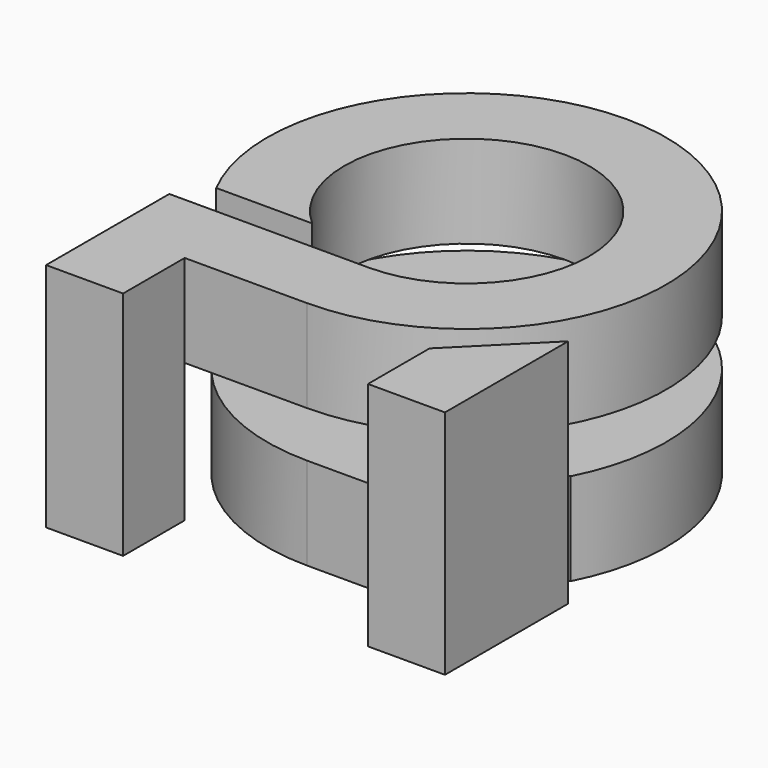
from build123d import *

# Parameters (mm, degrees)
F5_DEPTH = 1.5
F1_DEPTH = 4.5
F3_ANGLE = 180


with BuildPart() as f5:
    # F4 (on Top) → F5 (new body, symmetric)
    with BuildSketch(Plane.XY):
        with BuildLine():
            ThreePointArc((0, 3.975), (3.975, 0), (0, -3.975))
            Line((0, -3.975), (-6.475, -3.975))
            Line((-6.475, -3.975), (-6.475, -8.975))
            Line((-6.475, -8.975), (-3.975, -8.975))
            Line((-3.975, -8.975), (-3.975, -6.475))
            Line((-3.975, -6.475), (0, -6.475))
            ThreePointArc((0, -6.475), (6.475, 0), (0, 6.475))
            Line((0, 6.475), (0, 3.975))
        make_face()
        with BuildLine():
            ThreePointArc((-2.6362852653, -2.975), (-3.71660127, 1.409787218), (0, 3.975))
            Line((0, 3.975), (0, 6.475))
            ThreePointArc((0, 6.475), (-5.5312182202, 3.3661922108), (-5.7510868538, -2.975))
            Line((-5.7510868538, -2.975), (-2.6362852653, -2.975))
        make_face()
    extrude(amount=F5_DEPTH, both=True)

    # F0 (on face) → F1 (join)
    with BuildSketch(Plane(origin=(0, 0, -1.5), x_dir=(1, 0, 0), z_dir=(0, 0, -1))):
        Polygon((-6.475, 8.975), (-6.475, 3.975), (-3.975, 6.475), (-3.975, 8.975), align=None)
        Polygon((-6.475, 8.975), (-6.475, 3.975), (-3.975, 6.475), (-3.975, 8.975), align=None)
    extrude(amount=F1_DEPTH)


with BuildPart() as f2_1:
    # F2: copy of F5
    add(f5.part.moved(Location((0, 0, 4.5))))


with BuildPart() as f5_1:
    # F3: moved
    add(f5.part.rotate(Axis((0, 8.7703629397, 0), (0, 1, 0)), F3_ANGLE))


solid = Compound([f2_1.part, f5_1.part])
